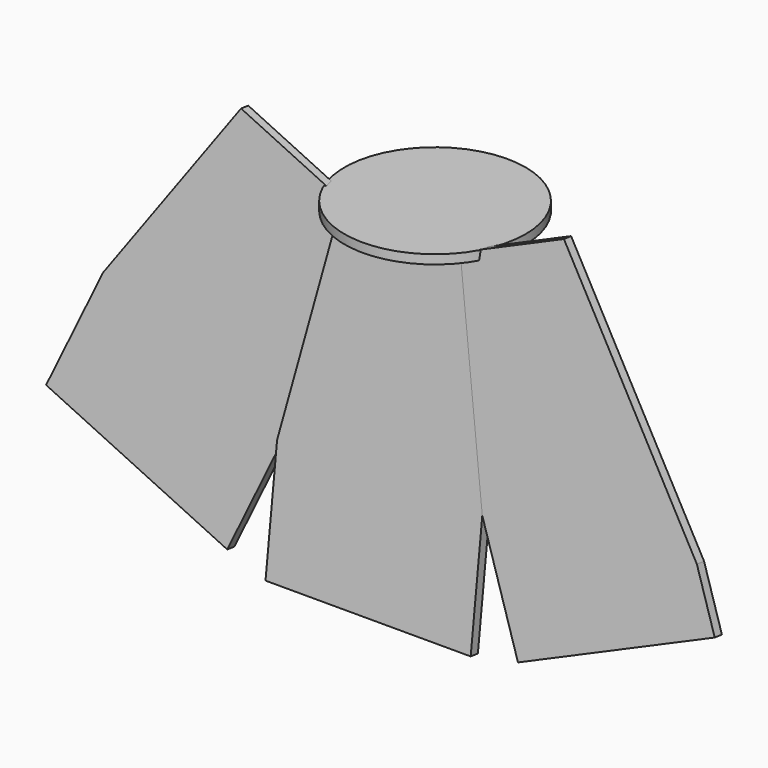
from build123d import *

# Parameters (mm, degrees)
F0_R      = 190.5
F2_DEPTH  = 19.05
F5_DEPTH  = 19.05
F6_DEPTH  = 19.05
F7_DEPTH  = 19.05
F9_DEPTH  = 19.05
F11_DEPTH = 3.175
F14_DEPTH = 3.175


with BuildPart() as f2:
    # F0 (on Top) → F2 (new body)
    with BuildSketch(Plane.XY):
        Circle(F0_R)
    extrude(amount=F2_DEPTH)


with BuildPart() as f5:
    # F4 (on line) → F5 (new body)
    with BuildSketch(Plane(origin=(0, -71.9404227057, 8.8331732131), x_dir=(1, 0, 0), z_dir=(0, -0.9925461516, 0.1218693434))):
        Polygon((126.4830102227, -8.8995088022), (-126.4830102227, -8.8995088022), (-215.9, -449.4767169954), (-215.9, -699.7795088022), (215.9, -699.7795088022), (215.9, -449.4767169954), align=None)
    extrude(amount=F5_DEPTH)

    # F8 (on face) → F9 (join)
    with BuildSketch(Plane(origin=(0, -71.9404227057, 8.8331732131), x_dir=(1, 0, 0), z_dir=(0, -0.9925461516, 0.1218693434))):
        Polygon((-101.5905031908, -13.9515473675), (-126.4830102227, -8.8995088022), (-215.9, -449.4767169954), (-191.0074929681, -454.5287555607), align=None)
    extrude(amount=-F9_DEPTH)


with BuildPart() as f6:
    # F4 (on line) → F6 (new body)
    with BuildSketch(Plane(origin=(0, -71.9404227057, 8.8331732131), x_dir=(1, 0, 0), z_dir=(0, -0.9925461516, 0.1218693434))):
        Polygon((336.0436092069, 79.8171695326), (126.4830102227, -8.8995088022), (215.9, -449.4767169954), (313.4806151707, -679.9751142331), (711.1158441221, -511.6377603963), (662.3255365367, -396.3885617774), align=None)
    extrude(amount=F6_DEPTH)


with BuildPart() as f7:
    # F4 (on line) → F7 (new body)
    with BuildSketch(Plane(origin=(0, -71.9404227057, 8.8331732131), x_dir=(1, 0, 0), z_dir=(0, -0.9925461516, 0.1218693434))):
        Polygon((-215.9, -449.4767169954), (-126.4830102227, -8.8995088022), (-359.4339167923, 89.7193668172), (-613.5352289514, -281.1393631585), (-711.1158441221, -511.6377603963), (-313.4806151708, -679.9751142331), align=None)
    extrude(amount=-F7_DEPTH)


with BuildPart() as f11:
    # F10 (on face) → F11 (new body)
    with BuildSketch(Plane(origin=(0, -53.0324185169, 6.5115622212), x_dir=(-1, 0, 0), z_dir=(0, 0.9925461516, -0.1218693434))):
        Polygon((198.2025678624, -427.1506455546), (210.8479614347, -424.5842099634), (150.2234986505, -125.8741255804), (137.5781050783, -128.4405611716), align=None)
    extrude(amount=F11_DEPTH)


with BuildPart() as f12_1:
    # F12: instance of F11
    add(f11.part.mirror(Plane(origin=(-180.5357300426, -84.9987494635, -266.8595566529), x_dir=(-0.0247263315, -0.9996942575, 0), z_dir=(-0.9800199619, 0.0242397096, 0.197416592))))


with BuildPart() as f14:
    # F13 (on face) → F14 (new body)
    with BuildSketch(Plane(origin=(0, -71.9404227057, 8.8331732131), x_dir=(1, 0, 0), z_dir=(0, -0.9925461516, 0.1218693434))):
        Polygon((210.8479614347, -424.5842099634), (223.4933550069, -422.0177743722), (162.8688922227, -123.3076899892), (150.2234986505, -125.8741255804), align=None)
    extrude(amount=-F14_DEPTH)


with BuildPart() as f15_1:
    # F15: instance of F14
    add(f14.part.mirror(Plane(origin=(180.5357300426, -103.9067536522, -264.537945661), x_dir=(0.0247263315, -0.9996942575, 0), z_dir=(-0.9800199619, -0.0242397096, -0.197416592))))


solid = Compound([f2.part, f5.part, f6.part, f7.part, f11.part, f12_1.part, f14.part, f15_1.part])
